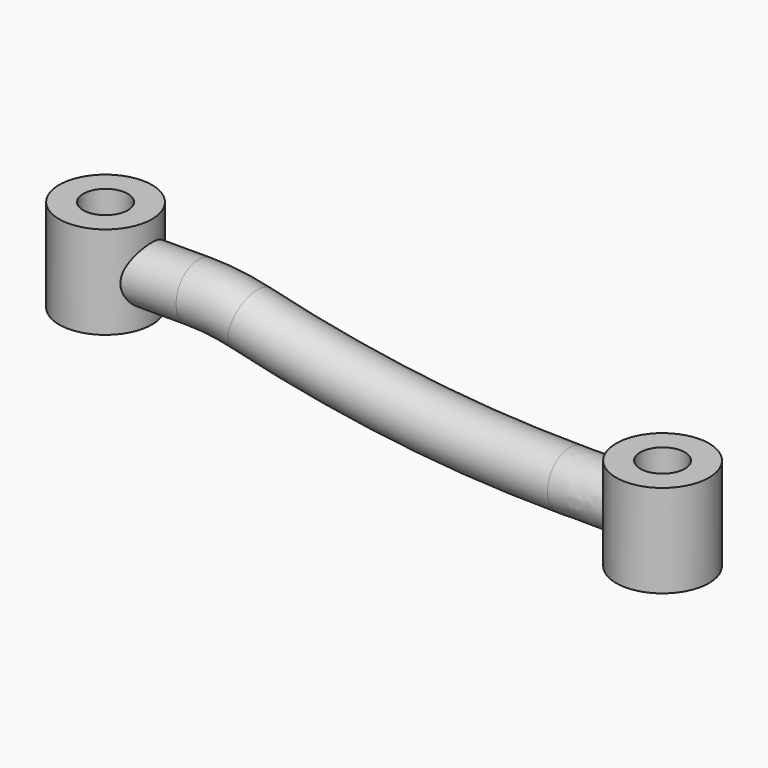
from build123d import *

# Parameters (mm, degrees)
F0_R     = 12.5
F0_R_2   = 6
F1_DEPTH = 25
F3_R     = 7.5
F4_R     = 12.5
F4_R_2   = 6
F6_DEPTH = 12.5
F7_R     = 6
F8_DEPTH = 25.001
F9_DEPTH = 12.5


with BuildPart() as f1:
    # F0 (on Top) → F1 (new body)
    with BuildSketch(Plane.XY):
        Circle(F0_R)
        Circle(F0_R_2, mode=Mode.SUBTRACT)
    extrude(amount=F1_DEPTH)

    # F5: sweep along a path in F2
    with BuildLine(Plane.XZ) as f5_path:
        Line((0, 12), (25, 12))
        ThreePointArc((25, 12), (32.148713, 11.57261), (39.195584, 10.29653))
        ThreePointArc((39.195584, 10.29653), (81.79, 2.583333), (125, 0))
        Line((125, 0), (150, 0))
    # F3 (on Right) → F5 (sweep)
    with BuildSketch(Plane.YZ):
        with Locations((0, 12)):
            Circle(F3_R)
    sweep(path=f5_path.line)

    # F4 (on Top) → F6 (join, symmetric)
    with BuildSketch(Plane.XY):
        with Locations((150, 0)):
            Circle(F4_R)
        with Locations((150, 0)):
            Circle(F4_R_2, mode=Mode.SUBTRACT)
    extrude(amount=F6_DEPTH, both=True)

    # F7 (on Top) → F8 (cut, through all)
    with BuildSketch(Plane.XY):
        Circle(F7_R)
    extrude(amount=F8_DEPTH, mode=Mode.SUBTRACT)

    # F4 (on Top) → F9 (cut, symmetric)
    with BuildSketch(Plane.XY):
        with Locations((150, 0)):
            Circle(F4_R_2)
    extrude(amount=F9_DEPTH, both=True, mode=Mode.SUBTRACT)


solid = f1.part
